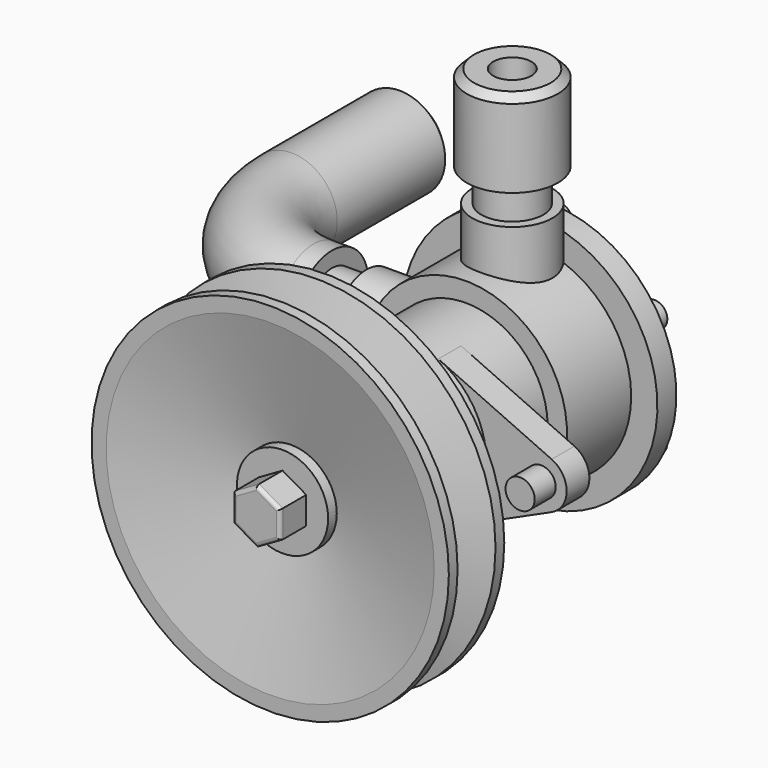
from build123d import *

# Parameters (mm, degrees)
F0_R      = 22.5
F1_DEPTH  = 24
F2_DEPTH  = 21
F3_R      = 4
F4_DEPTH  = 7.8
F5_R      = 7.5
F6_DEPTH  = 3
F10_DEPTH = 9
F11_R     = 1
F12_R     = 27.8
F13_DEPTH = 22
F14_R     = 35
F15_DEPTH = 6.5
F16_R     = 3.5
F17_DEPTH = 3.8
F19_R     = 11
F20_DEPTH = 25
F22_R     = 11
F23_DEPTH = 25
F24_R     = 8.5
F25_DEPTH = 9
F26_R     = 12.5
F27_DEPTH = 23.5
F28_SIZE  = 2
F29_R     = 5.25
F30_DEPTH = 55
F31_R     = 8.25
F32_DEPTH = 9.5
F33_R     = 12.5
F36_SIZE  = 2
F37_R     = 9.0275939992
F38_DEPTH = 37
F39_R     = 4
F40_DEPTH = 15


with BuildPart() as f1:
    # F0 (on Front) → F1 (new body)
    with BuildSketch(Plane.XZ):
        Circle(F0_R)
    extrude(amount=F1_DEPTH)

    # F0 (on Front) → F2 (join)
    with BuildSketch(Plane.XZ):
        Circle(F0_R)
    extrude(amount=-F2_DEPTH)

    # F3 (on Front) → F4 (join)
    with BuildSketch(Plane.XZ):
        with BuildLine():
            Line((-9.3, 20.4880452948), (-40.3933333333, 6.3740585361))
            ThreePointArc((-40.3933333333, 6.3740585361), (-44.5, 0), (-40.3933333333, -6.3740585361))
            Line((-40.3933333333, -6.3740585361), (-9.3, -20.4880452948))
            ThreePointArc((-9.3, -20.4880452948), (-22.5, 0), (-9.3, 20.4880452948))
        make_face()
        with Locations((-37.5, 0)):
            Circle(F3_R, mode=Mode.SUBTRACT)
        with BuildLine():
            Line((9.3, -20.4880452948), (40.3933333333, -6.3740585361))
            ThreePointArc((40.3933333333, -6.3740585361), (44.5, 0), (40.3933333333, 6.3740585361))
            Line((40.3933333333, 6.3740585361), (9.3, 20.4880452948))
            ThreePointArc((9.3, 20.4880452948), (22.5, 0), (9.3, -20.4880452948))
        make_face()
        with Locations((37.5, 0)):
            Circle(F3_R, mode=Mode.SUBTRACT)
    extrude(amount=-F4_DEPTH)

    # F5 (on face) → F6 (join)
    with BuildSketch(Plane.XZ.offset(24)):
        Circle(F5_R)
    extrude(amount=F6_DEPTH)

    # F7 (on Top) → F8 (revolve)
    with BuildSketch(Plane.XY):
        Polygon((12.5, -27), (7.5, -27), (0, -27), (0, -38.8), (0, -41.7667143047), (12.5, -41.7667143047), (12.5, -38.8), (44.9961982667, -46), (49, -46), (49, -43), (35, -38.8), (35, -34.2), (49, -30), (49, -27), (44.9961982667, -27), (23.7909853458, -30), (12.5, -30), align=None)
    revolve(axis=Axis((0, -32.9, 0), (0, 1, 0)))

    # F9 (on face) → F10 (join)
    with BuildSketch(Plane.XZ.offset(41.7667143047)):
        Polygon((6.5, -3.7527767497), (6.5, 3.7527767497), (0, 7.5055534995), (-6.5, 3.7527767497), (-6.5, -3.7527767497), (0, -7.5055534995), align=None)
    extrude(amount=F10_DEPTH)

    # F11
    f11_edges = [f1.edges().sort_by_distance(p)[0] for p in [
        (6.5, -50.766714, 0),
        (3.25, -50.766714, 5.629165),
        (-3.25, -50.766714, 5.629165),
        (-6.5, -50.766714, 0),
        (-3.25, -50.766714, -5.629165),
        (3.25, -50.766714, -5.629165),
    ]]
    fillet(f11_edges, radius=F11_R)

    # F12 (on face) → F13 (join)
    with BuildSketch(Plane(origin=(0, 21, 0), x_dir=(-1, 0, 0), z_dir=(0, 1, 0))):
        Circle(F12_R)
    extrude(amount=F13_DEPTH)

    # F14 (on face) → F15 (join)
    with BuildSketch(Plane(origin=(0, 43, 0), x_dir=(-1, 0, 0), z_dir=(0, 1, 0))):
        Circle(F14_R)
    extrude(amount=F15_DEPTH)

    # F16 (on face) → F17 (join)
    with BuildSketch(Plane(origin=(0, 49.5, 0), x_dir=(-1, 0, 0), z_dir=(0, 1, 0))):
        with Locations((0, 30)):
            Circle(F16_R)
        Polygon((0, 32.3094010768), (2, 31.1547005384), (2, 28.8452994616), (0, 27.6905989232), (-2, 28.8452994616), (-2, 31.1547005384), align=None, mode=Mode.SUBTRACT)
        with Locations((-25.9807621135, 15)):
            Circle(F16_R)
        Polygon((-27.9807621135, 16.1547005384), (-25.9807621135, 17.3094010768), (-23.9807621135, 16.1547005384), (-23.9807621135, 13.8452994616), (-25.9807621135, 12.6905989232), (-27.9807621135, 13.8452994616), align=None, mode=Mode.SUBTRACT)
        with Locations((-25.9807621135, -15)):
            Circle(F16_R)
        Polygon((-27.9807621135, -16.1547005384), (-27.9807621135, -13.8452994616), (-25.9807621135, -12.6905989232), (-23.9807621135, -13.8452994616), (-23.9807621135, -16.1547005384), (-25.9807621135, -17.3094010768), align=None, mode=Mode.SUBTRACT)
        with Locations((0, -30)):
            Circle(F16_R)
        Polygon((0, -32.3094010768), (-2, -31.1547005384), (-2, -28.8452994616), (0, -27.6905989232), (2, -28.8452994616), (2, -31.1547005384), align=None, mode=Mode.SUBTRACT)
        with Locations((25.9807621135, -15)):
            Circle(F16_R)
        Polygon((27.9807621135, -16.1547005384), (25.9807621135, -17.3094010768), (23.9807621135, -16.1547005384), (23.9807621135, -13.8452994616), (25.9807621135, -12.6905989232), (27.9807621135, -13.8452994616), align=None, mode=Mode.SUBTRACT)
        with Locations((25.9807621135, 15)):
            Circle(F16_R)
        Polygon((27.9807621135, 16.1547005384), (27.9807621135, 13.8452994616), (25.9807621135, 12.6905989232), (23.9807621135, 13.8452994616), (23.9807621135, 16.1547005384), (25.9807621135, 17.3094010768), align=None, mode=Mode.SUBTRACT)
    extrude(amount=F17_DEPTH)

    # F19 (on offset) → F20 (join)
    with BuildSketch(Plane.YZ.offset(-40)):
        with Locations((37, 0)):
            Circle(F19_R)
    extrude(amount=F20_DEPTH)

    # F22 (on offset) → F23 (join)
    with BuildSketch(Plane.XY.offset(40)):
        with Locations((0, 37)):
            Circle(F22_R)
    extrude(amount=-F23_DEPTH)

    # F24 (on face) → F25 (join)
    with BuildSketch(Plane.XY.offset(40)):
        with Locations((0, 37)):
            Circle(F24_R)
    extrude(amount=F25_DEPTH)

    # F26 (on face) → F27 (join)
    with BuildSketch(Plane.XY.offset(49)):
        with Locations((0, 37)):
            Circle(F26_R)
    extrude(amount=F27_DEPTH)

    # F28
    f28_edges = [f1.edges().sort_by_distance(p)[0] for p in [
        (-12.5, 37, 72.5),
    ]]
    chamfer(f28_edges, length=F28_SIZE)

    # F29 (on face) → F30 (cut)
    with BuildSketch(Plane.XY.offset(72.5)):
        with Locations((0, 37)):
            Circle(F29_R)
    extrude(amount=-F30_DEPTH, mode=Mode.SUBTRACT)

    # F31 (on face) → F32 (join)
    with BuildSketch(Plane(origin=(-40, 0, 0), x_dir=(0, -1, 0), z_dir=(-1, 0, 0))):
        with Locations((-37, 0)):
            Circle(F31_R)
    extrude(amount=F32_DEPTH)

    # F35: sweep along a path in F34
    with BuildLine(Plane.XY) as f35_path:
        Line((-49.5, 37), (-54.5, 37))
        ThreePointArc((-54.5, 37), (-75.7132034356, 45.7867965644), (-84.5, 67))
        Line((-84.5, 67), (-84.5, 106))
    # F33 (on face) → F35 (sweep)
    with BuildSketch(Plane(origin=(-49.5, 0, 0), x_dir=(0, -1, 0), z_dir=(-1, 0, 0))):
        with Locations((-37, 0)):
            Circle(F33_R)
    sweep(path=f35_path.line)

    # F36
    f36_edges = [f1.edges().sort_by_distance(p)[0] for p in [
        (-72, 106, 0),
    ]]
    chamfer(f36_edges, length=F36_SIZE)

    # F37 (on face) → F38 (cut)
    with BuildSketch(Plane(origin=(0, 106, 0), x_dir=(-1, 0, 0), z_dir=(0, 1, 0))):
        with Locations((84.5, 0)):
            Circle(F37_R)
    extrude(amount=-F38_DEPTH, mode=Mode.SUBTRACT)

    # F39 (on face) → F40 (join)
    with BuildSketch(Plane(origin=(0, 7.8, 0), x_dir=(-1, 0, 0), z_dir=(0, 1, 0))):
        with Locations((-37.5, 0)):
            Circle(F39_R)
        with Locations((37.5, 0)):
            Circle(F39_R)
    extrude(amount=-F40_DEPTH)


solid = f1.part
